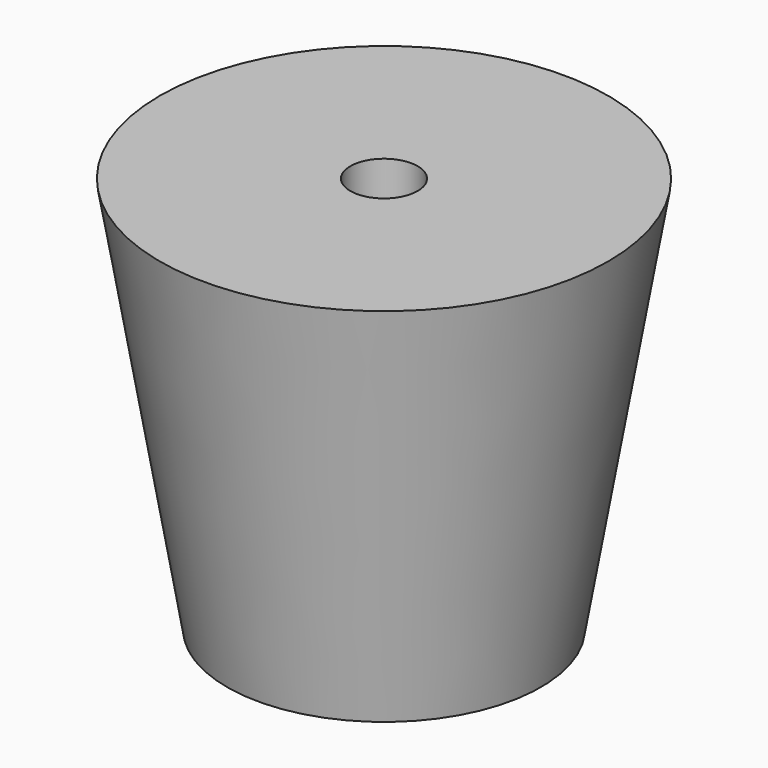
from build123d import *

# Parameters (mm, degrees)
F2_R     = 9.525
F3_DEPTH = 90.17


with BuildPart() as f1:
    # F0 (on Front) → F1 (revolve)
    with BuildSketch(Plane.XZ):
        Polygon((0, -50.57954), (0, 61.748147), (-63.5, 61.748147), (-44.45, -50.57954), align=None)
    revolve(axis=Axis((0, 0, 5.584303), (0, 0, -1)))

    # F2 (on face) → F3 (cut)
    with BuildSketch(Plane.XY.offset(61.748147)):
        Circle(F2_R)
    extrude(amount=-F3_DEPTH, mode=Mode.SUBTRACT)


solid = f1.part
